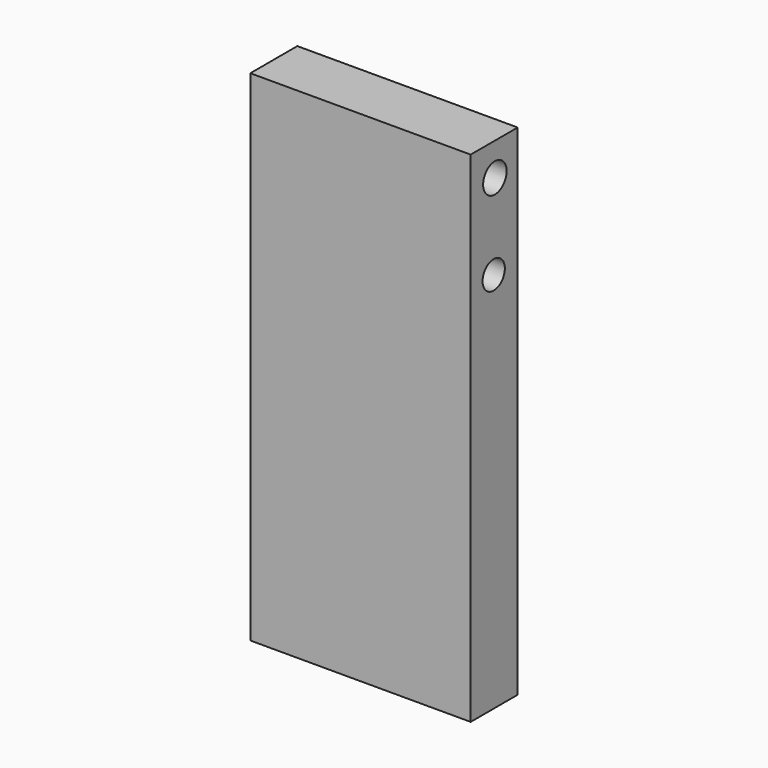
from build123d import *

# Parameters (mm, degrees)
F0_W     = 19.05
F0_H     = 43.18
F1_DEPTH = 5.08
F2_R     = 1.202525
F3_DEPTH = 2.54
F4_R     = 1.488728
F5_DEPTH = 5.08
F6_R     = 1.27
F7_DEPTH = 25.4


with BuildPart() as f1:
    # F0 (on Front) → F1 (new body)
    with BuildSketch(Plane.XZ):
        Rectangle(F0_W, F0_H)
    extrude(amount=F1_DEPTH)

    # F2 (on face) → F3 (cut)
    with BuildSketch(Plane.YZ.offset(9.525)):
        with Locations((-2.590251, 11.43)):
            Circle(F2_R)
    extrude(amount=-F3_DEPTH, mode=Mode.SUBTRACT)

    # F4 (on face) → F5 (cut)
    with BuildSketch(Plane(origin=(-9.525, 0, 0), x_dir=(0, -1, 0), z_dir=(-1, 0, 0))):
        with Locations((2.54, 11.43)):
            Circle(F4_R)
    extrude(amount=-F5_DEPTH, mode=Mode.SUBTRACT)

    # F6 (on face) → F7 (cut)
    with BuildSketch(Plane.YZ.offset(9.525)):
        with Locations((-2.463937, 18.757666)):
            Circle(F6_R)
    extrude(amount=-F7_DEPTH, mode=Mode.SUBTRACT)


solid = f1.part
